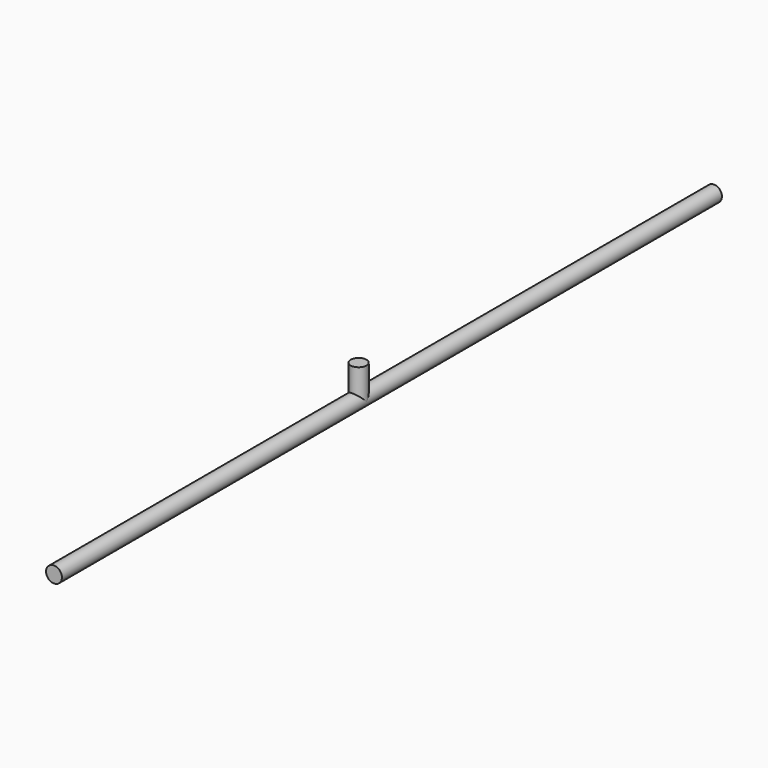
from build123d import *

# Parameters (mm, degrees)
F0_R     = 3.175
F1_DEPTH = 165.1
F2_R     = 3.175
F3_DEPTH = 12.7


with BuildPart() as f1:
    # F0 (on Front) → F1 (new body, symmetric)
    with BuildSketch(Plane.XZ):
        Circle(F0_R)
    extrude(amount=F1_DEPTH, both=True)

    # F2 (on Top) → F3 (join)
    with BuildSketch(Plane.XY):
        with Locations((0, -12.7)):
            Circle(F2_R)
    extrude(amount=F3_DEPTH)


solid = f1.part
